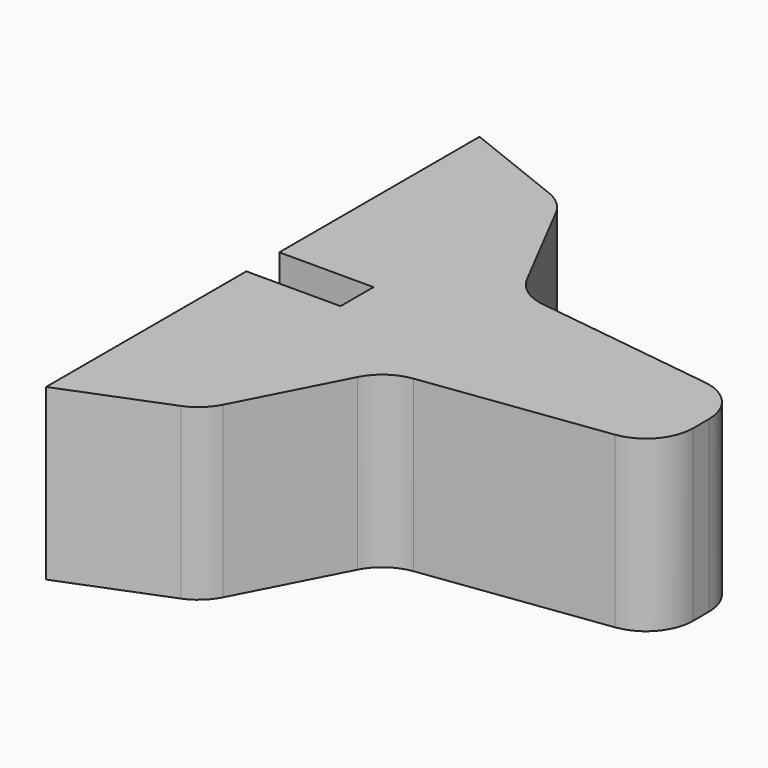
from build123d import *

# Parameters (mm, degrees)
F1_DEPTH = 9.144
F2_W     = 2.06375
F2_H     = 2.0955
F2_W_2   = 2.2225
F2_H_2   = 1.11125
F2_H_3   = 2.413
F3_DEPTH = 5.08
F4_DEPTH = 15.24
F5_R     = 2.54


with BuildPart() as f1:
    # F0 (on Top) → F1 (new body)
    with BuildSketch(Plane.XY):
        Polygon((23.622, 2.749807667), (10.287, 4.5246649534), (10.287, -4.5246649534), (23.622, -2.749807667), align=None)
        Polygon((6.3920377387, 12.065), (0, 14.605), (0, -14.605), (6.3920377387, -12.065), (10.287, -4.5246649534), (10.287, 4.5246649534), align=None)
    extrude(amount=F1_DEPTH)

    # F2 (on face) → F3 (cut)
    with BuildSketch(Plane(origin=(0, 0, 0), x_dir=(0, -1, 0), z_dir=(-1, 0, 0))):
        with Locations((-2.143125, 4.572)):
            Rectangle(F2_W, F2_H)
        with Locations((0, 4.572)):
            Rectangle(F2_W_2, F2_H)
        with Locations((0, 2.968625)):
            Rectangle(F2_W_2, F2_H_2)
        with Locations((2.143125, 4.572)):
            Rectangle(F2_W, F2_H)
        with Locations((0, 6.175375)):
            Rectangle(F2_W_2, F2_H_2)
        with Locations((0, 1.2065)):
            Rectangle(F2_W_2, F2_H_3)
        with Locations((0, 7.9375)):
            Rectangle(F2_W_2, F2_H_3)
    extrude(amount=-F3_DEPTH, mode=Mode.SUBTRACT)

    # F2 (on face) → F4 (cut)
    with BuildSketch(Plane(origin=(0, 0, 0), x_dir=(0, -1, 0), z_dir=(-1, 0, 0))):
        with Locations((0, 2.968625)):
            Rectangle(F2_W_2, F2_H_2)
        with Locations((0, 4.572)):
            Rectangle(F2_W_2, F2_H)
        with Locations((0, 6.175375)):
            Rectangle(F2_W_2, F2_H_2)
    extrude(amount=-F4_DEPTH, mode=Mode.SUBTRACT)

    # F5
    f5_edges = [f1.edges().sort_by_distance(p)[0] for p in [
        (23.622, 2.749808, 4.572),
        (23.622, -2.749808, 4.572),
        (10.287, 4.524665, 4.572),
        (6.392038, 12.065, 4.572),
        (10.287, -4.524665, 4.572),
        (6.392038, -12.065, 4.572),
    ]]
    fillet(f5_edges, radius=F5_R)


solid = f1.part
